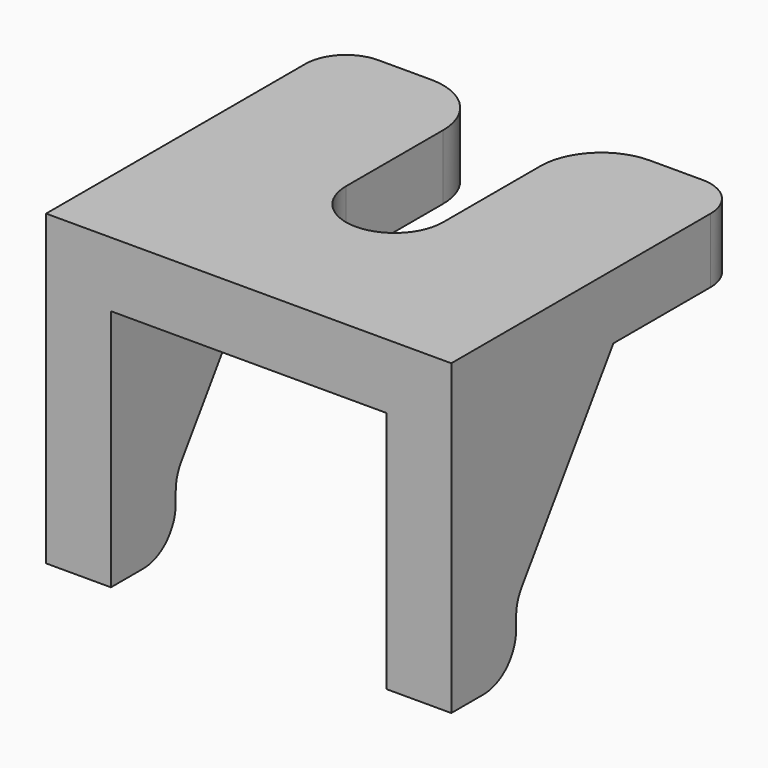
from build123d import *

# Parameters (mm, degrees)
PAD004_DEPTH            = 1.6
PAD005_DEPTH            = 1.6
LINEARPATTERN001_COUNT  = 2
LINEARPATTERN001_PITCH  = 8.4
FILLET004_R             = 1
FILLET005_R             = 1
FILLET006_R             = 1
FILLET007_R             = 1.5
BODY002_PLACEMENT_ANGLE = 90


with BuildPart() as part:
    # Sketch006 → Pad004 (new body)
    with BuildSketch(Plane.XY):
        with BuildLine():
            Line((-4.5, 5), (4.5, 5))
            Line((4.5, 5), (4.5, 1.2))
            Line((0, 1.2), (4.5, 1.2))
            ThreePointArc((0, 1.2), (-1.2, 0), (0, -1.2))
            Line((4.5, -1.2), (0, -1.2))
            Line((4.5, -1.2), (4.5, -5))
            Line((4.5, -5), (-4.5, -5))
            Line((-4.5, -5), (-4.5, 5))
        make_face()
    extrude(amount=PAD004_DEPTH)

    # Sketch007 (on DatumPlane) → Pad005 (join)
    with BuildSketch(Plane.XZ.offset(5)):
        Polygon((-4.5, 0), (-4.5, -6), (-2.5, -6), (-2.5, -4.4), (0.5, 0), align=None)
    pad005 = extrude(amount=-PAD005_DEPTH)

    # LinearPattern001: Pad005 ×2
    with Locations(*[(0, i * LINEARPATTERN001_PITCH, 0) for i in range(1, LINEARPATTERN001_COUNT)]):
        add(pad005)

    # Fillet004
    fillet004_edges = [part.edges().sort_by_distance(p)[0] for p in [
        (-2.5, -4.2, -6),
        (-2.5, 4.2, -6),
    ]]
    fillet(fillet004_edges, radius=FILLET004_R)

    # Fillet005
    fillet005_edges = [part.edges().sort_by_distance(p)[0] for p in [
        (-2.5, -4.2, -4.4),
        (-2.5, 4.2, -4.4),
    ]]
    fillet(fillet005_edges, radius=FILLET005_R)

    # Fillet006
    fillet006_edges = [part.edges().sort_by_distance(p)[0] for p in [
        (4.5, -5, 0.8),
        (4.5, 5, 0.8),
    ]]
    fillet(fillet006_edges, radius=FILLET006_R)

    # Fillet007
    fillet007_edges = [part.edges().sort_by_distance(p)[0] for p in [
        (4.5, -1.2, 0.8),
        (4.5, 1.2, 0.8),
    ]]
    fillet(fillet007_edges, radius=FILLET007_R)


with BuildPart() as part_1:
    # Body002 placement: moved
    add(part.part.moved(Location((22.4, 32.5, 10.4))).rotate(Axis((22.4, 32.5, 10.4), (0, 0, 1)), BODY002_PLACEMENT_ANGLE))


solid = part_1.part
